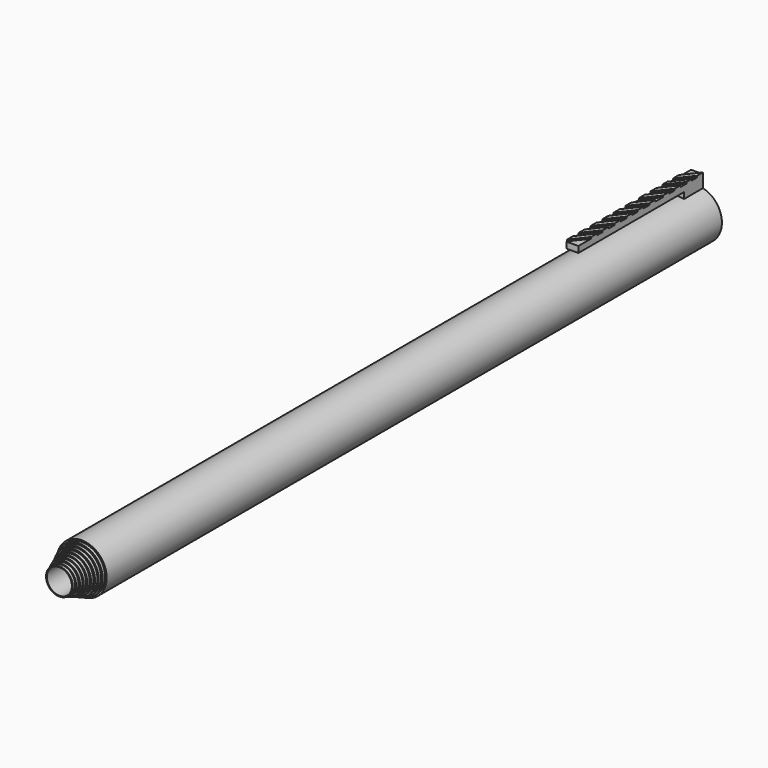
from build123d import *

# Parameters (mm, degrees)
F0_R      = 4.064
F1_DEPTH  = 124.46
F2_R      = 2.0447
F3_DEPTH  = 124.461
F4_R      = 4.064
F4_R_2    = 3.8152332724
F5_DEPTH  = 1.016
F4_R_3    = 3.5783205967
F6_DEPTH  = 1.524
F4_R_4    = 3.374484348
F7_DEPTH  = 2.032
F4_R_5    = 3.1236204278
F8_DEPTH  = 2.54
F4_R_6    = 2.9077299751
F9_DEPTH  = 3.048
F4_R_7    = 2.7268965776
F10_DEPTH = 3.556
F4_R_8    = 2.5416004055
F11_DEPTH = 4.064
F4_R_9    = 2.3133155835
F12_DEPTH = 4.572
F4_R_10   = 2.1752144811
F13_DEPTH = 5.08
F14_DEPTH = 5.588
F16_DEPTH = 25.4
F17_DEPTH = 0.762
F18_W     = 21.5292948574
F18_H     = 1.006477682
F19_DEPTH = 25.4
F21_DEPTH = 0.254


with BuildPart() as f1:
    # F0 (on Front) → F1 (new body)
    with BuildSketch(Plane.XZ):
        Circle(F0_R)
    extrude(amount=F1_DEPTH)

    # F2 (on face) → F3 (cut, through all)
    with BuildSketch(Plane.XZ.offset(124.46)):
        Circle(F2_R)
    extrude(amount=-F3_DEPTH, mode=Mode.SUBTRACT)

    # F4 (on face) → F5 (join)
    with BuildSketch(Plane.XZ.offset(124.46)):
        Circle(F4_R)
        Circle(F4_R_2, mode=Mode.SUBTRACT)
    extrude(amount=F5_DEPTH)

    # F4 (on face) → F6 (join)
    with BuildSketch(Plane.XZ.offset(124.46)):
        Circle(F4_R_2)
        Circle(F4_R_3, mode=Mode.SUBTRACT)
    extrude(amount=F6_DEPTH)

    # F4 (on face) → F7 (join)
    with BuildSketch(Plane.XZ.offset(124.46)):
        Circle(F4_R_3)
        Circle(F4_R_4, mode=Mode.SUBTRACT)
    extrude(amount=F7_DEPTH)

    # F4 (on face) → F8 (join)
    with BuildSketch(Plane.XZ.offset(124.46)):
        Circle(F4_R_4)
        Circle(F4_R_5, mode=Mode.SUBTRACT)
    extrude(amount=F8_DEPTH)

    # F4 (on face) → F9 (join)
    with BuildSketch(Plane.XZ.offset(124.46)):
        Circle(F4_R_5)
        Circle(F4_R_6, mode=Mode.SUBTRACT)
    extrude(amount=F9_DEPTH)

    # F4 (on face) → F10 (join)
    with BuildSketch(Plane.XZ.offset(124.46)):
        Circle(F4_R_6)
        Circle(F4_R_7, mode=Mode.SUBTRACT)
    extrude(amount=F10_DEPTH)

    # F4 (on face) → F11 (join)
    with BuildSketch(Plane.XZ.offset(124.46)):
        Circle(F4_R_7)
        Circle(F4_R_8, mode=Mode.SUBTRACT)
    extrude(amount=F11_DEPTH)

    # F4 (on face) → F12 (join)
    with BuildSketch(Plane.XZ.offset(124.46)):
        Circle(F4_R_8)
        Circle(F4_R_9, mode=Mode.SUBTRACT)
    extrude(amount=F12_DEPTH)

    # F4 (on face) → F13 (join)
    with BuildSketch(Plane.XZ.offset(124.46)):
        Circle(F4_R_9)
        Circle(F4_R_10, mode=Mode.SUBTRACT)
    extrude(amount=F13_DEPTH)

    # F14 (add): a face of the model
    f14_faces = [f1.faces().sort_by_distance(p)[0] for p in [
        (-2.1136901247, -124.46, 0),
    ]]
    extrude(f14_faces, amount=F14_DEPTH)


with BuildPart() as f16:
    # F15 (on face) → F16 (new body)
    with BuildSketch(Plane(origin=(0, 0, 0), x_dir=(-1, 0, 0), z_dir=(0, 1, 0))):
        with BuildLine():
            Line((0.969581597, 3.9466450976), (0.969581597, 5.1976004615))
            Line((0.969581597, 5.1976004615), (-0.969581597, 5.1976004615))
            Line((-0.969581597, 5.1976004615), (-0.969581597, 3.9466450976))
            ThreePointArc((-0.969581597, 3.9466450976), (0, 4.064), (0.969581597, 3.9466450976))
        make_face()
    extrude(amount=-F16_DEPTH)

    # F17 (add): a face of the model
    f17_faces = [f16.faces().sort_by_distance(p)[0] for p in [
        (0, -12.7, 5.1976004615),
    ]]
    extrude(f17_faces, amount=F17_DEPTH)

    # F18 (on face) → F19 (cut)
    with BuildSketch(Plane(origin=(-0.969581597, 0, 0), x_dir=(0, -1, 0), z_dir=(-1, 0, 0))):
        with Locations((14.6353525713, 4.4498839386)):
            Rectangle(F18_W, F18_H)
    extrude(amount=-F19_DEPTH, mode=Mode.SUBTRACT)

    # F20 (on face) → F21 (join)
    with BuildSketch(Plane.XY.offset(5.9596004615)):
        Polygon((0.969581597, -1.1831490597), (0.969581597, 0), (-0.969581597, -2.478363727), (-0.969581597, -3.6615127867), align=None)
        Polygon((0.969581597, -3.3909106419), (0.969581597, -2.3661273203), (-0.969581597, -4.8444910473), (-0.969581597, -5.8667180324), align=None)
        Polygon((0.969581597, -5.7761992704), (0.969581597, -4.5798162299), (-0.969581597, -7.0581799569), (-0.969581597, -8.2519799569), align=None)
        Polygon((0.969581597, -8.1637992704), (0.969581597, -6.9674162299), (-0.969581597, -9.4457799569), (-0.969581597, -10.6395799569), align=None)
        Polygon((0.969581597, -10.9091831476), (0.969581597, -9.7179661881), (-0.969581597, -12.1937468746), (-0.969581597, -13.3875468746), align=None)
        Polygon((0.969581597, -13.3019458924), (0.969581597, -12.1055661881), (-0.969581597, -14.5813468746), (-0.969581597, -15.7751468746), align=None)
        Polygon((0.969581597, -15.6257336208), (0.969581597, -14.4345133251), (-0.969581597, -16.9077143073), (-0.969581597, -18.1015143073), align=None)
        Polygon((0.969581597, -18.0159133251), (0.969581597, -16.8221133251), (-0.969581597, -19.2953143073), (-0.969581597, -20.4891143073), align=None)
        Polygon((0.969581597, -20.4431303015), (0.969581597, -19.2467539257), (-0.969581597, -21.7199549079), (-0.969581597, -22.9137549079), align=None)
        Polygon((0.969581597, -22.8358730989), (0.969581597, -21.6395033567), (-0.969581597, -24.1075549079), (-0.969581597, -25.3013549079), align=None)
    extrude(amount=F21_DEPTH)


solid = Compound([f1.part, f16.part])
